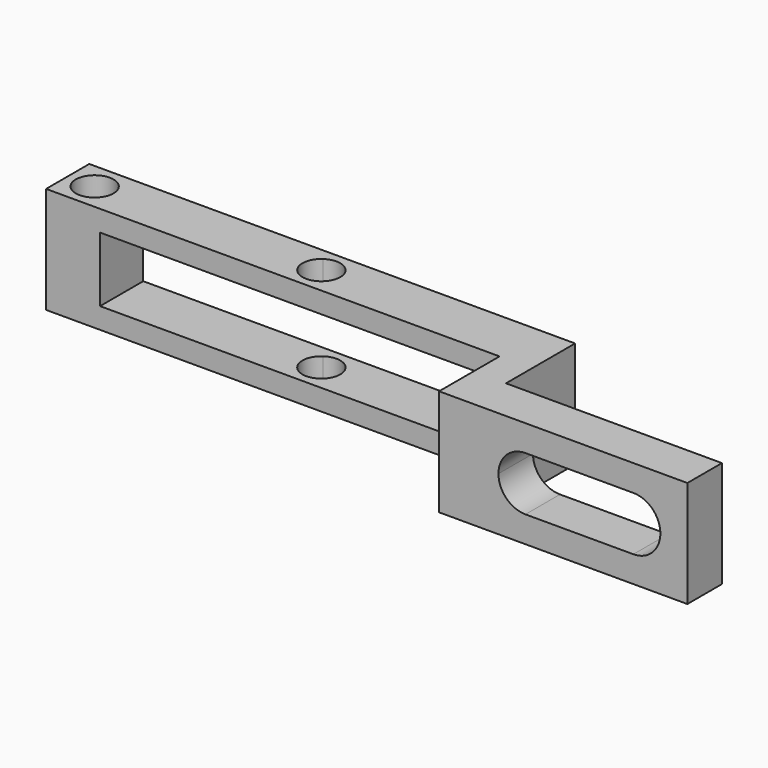
from build123d import *

# Parameters (mm, degrees)
F0_W     = 3
F0_H     = 3
F1_DEPTH = 5
F3_DEPTH = 25
F4_W     = 3
F4_H     = 9.87
F5_DEPTH = 7
F6_W     = 4
F6_H     = 9.87
F7_DEPTH = 20
F9_DEPTH = 25


with BuildPart() as f1:
    # F0 (on Front) → F1 (new body)
    with BuildSketch(Plane.XZ):
        Polygon((-18.4640498906, -4.8765387449), (-18.4640498906, -6.8115387449), (26.5359501094, -6.8115387449), (26.5359501094, -4.8765387449), (23.5359501094, -4.8765387449), (-13.4640498906, -4.8765387449), align=None)
        Polygon((-18.4640498906, 3.0584612551), (-18.4640498906, -4.8765387449), (-13.4640498906, -4.8765387449), (-13.4640498906, 1.1234612551), (-1.7127114115, 1.1234612551), (23.5359501094, 1.1234612551), (26.5359501094, 1.1234612551), (26.5359501094, 3.0584612551), align=None)
        with Locations((25.0359501094, -3.3765387449)):
            Rectangle(F0_W, F0_H)
        with Locations((25.0359501094, -0.3765387449)):
            Rectangle(F0_W, F0_H)
    extrude(amount=F1_DEPTH)

    # F2 (on face) → F3 (cut)
    with BuildSketch(Plane.XY.offset(3.0584612551)):
        with BuildLine():
            ThreePointArc((-14.2140498906, -2.5), (-15.9640498906, -0.75), (-17.7140498906, -2.5))
            ThreePointArc((-17.7140498906, -2.5), (-15.9640498906, -4.25), (-14.2140498906, -2.5))
        make_face()
        with BuildLine():
            ThreePointArc((6.7859501094, -2.5), (5.8460426967, -0.9487907943), (4.0359501094, -1.0638593384))
            ThreePointArc((4.0359501094, -1.0638593384), (4.2258575221, -4.0512092057), (6.7859501094, -2.5))
        make_face()
    extrude(amount=-F3_DEPTH, mode=Mode.SUBTRACT)

    # F4 (on face) → F5 (join)
    with BuildSketch(Plane.XZ.offset(5)):
        with Locations((25.0359501094, -1.8765387449)):
            Rectangle(F4_W, F4_H)
    extrude(amount=F5_DEPTH)

    # F6 (on face) → F7 (join)
    with BuildSketch(Plane.YZ.offset(26.5359501094)):
        with Locations((-10, -1.8765387449)):
            Rectangle(F6_W, F6_H)
    extrude(amount=F7_DEPTH)

    # F8 (on face) → F9 (cut)
    with BuildSketch(Plane.XZ.offset(12)):
        with BuildLine():
            ThreePointArc((31.5359501094, 0.6234612551), (29.7681831564, -0.1087717919), (29.0359501094, -1.8765387449))
            Line((29.0359501094, -1.8765387449), (31.5359501094, -1.8765387449))
            Line((31.5359501094, -1.8765387449), (41.5359501094, -1.8765387449))
            Line((41.5359501094, -1.8765387449), (44.0359501094, -1.8765387449))
            ThreePointArc((44.0359501094, -1.8765387449), (43.3037170623, -0.1087717919), (41.5359501094, 0.6234612551))
            Line((41.5359501094, 0.6234612551), (31.5359501094, 0.6234612551))
        make_face()
        with BuildLine():
            Line((31.5359501094, -1.8765387449), (29.0359501094, -1.8765387449))
            ThreePointArc((29.0359501094, -1.8765387449), (29.7681831564, -3.6443056978), (31.5359501094, -4.3765387449))
            Line((31.5359501094, -4.3765387449), (41.5359501094, -4.3765387449))
            ThreePointArc((41.5359501094, -4.3765387449), (43.3037170623, -3.6443056978), (44.0359501094, -1.8765387449))
            Line((44.0359501094, -1.8765387449), (41.5359501094, -1.8765387449))
            Line((41.5359501094, -1.8765387449), (31.5359501094, -1.8765387449))
        make_face()
    extrude(amount=-F9_DEPTH, mode=Mode.SUBTRACT)


solid = f1.part
